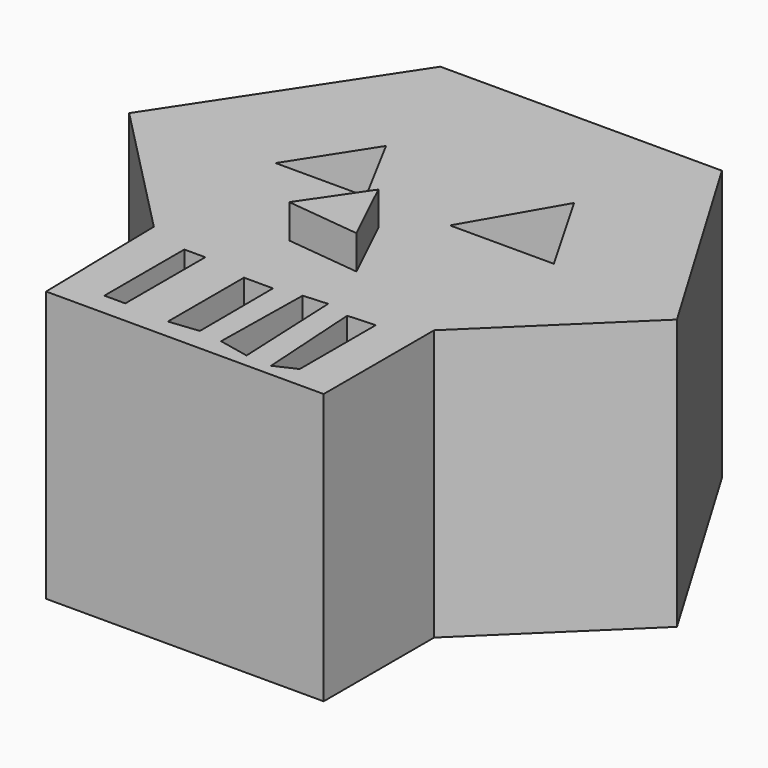
from build123d import *

# Parameters (mm, degrees)
PAD_DEPTH       = 20
POCKET_DEPTH    = 5
POCKET001_DEPTH = 5
PAD001_DEPTH    = 2.5
SKETCH004_W     = 1.549321
SKETCH004_H     = 7.389076
POCKET002_DEPTH = 20.001
POCKET003_DEPTH = 20.001
POCKET004_DEPTH = 20.001
POCKET005_DEPTH = 20.001


with BuildPart() as part:
    # Sketch → Pad (new body)
    with BuildSketch(Plane.XY):
        Polygon((-9.801471, 25.959593), (11.01361, 25.959593), (20.613062, 9.803649), (10.505054, 0), (10.505054, -10.208122), (-10.014578, -10.208122), (-10.216599, 0), (-20.202017, 10.202021), align=None)
    extrude(amount=PAD_DEPTH)

    # Sketch002 (on Face10 of Pad) → Pocket (cut)
    with BuildSketch(Plane.XY.offset(20)):
        Polygon((10.707072, 10.808081), (3.03031, 10.808081), (6.868694, 17.474747), align=None)
    extrude(amount=-POCKET_DEPTH, mode=Mode.SUBTRACT)

    # Sketch001 (on Face10 of Pad) → Pocket001 (cut)
    with BuildSketch(Plane.XY.offset(20)):
        Polygon((-6.060602, 16.262627), (-9.696968, 10.606062), (-3.030296, 10.606062), align=None)
    extrude(amount=-POCKET001_DEPTH, mode=Mode.SUBTRACT)

    # Sketch003 (on Face5 of Pocket001) → Pad001 (join)
    with BuildSketch(Plane.XY.offset(20)):
        Polygon((0, 7.979798), (-3.030296, 3.535354), (2.424244, 2.929294), align=None)
    extrude(amount=PAD001_DEPTH)

    # Sketch004 (on Face5 of Pad001) → Pocket002 (cut, through all)
    with BuildSketch(Plane.XY.offset(20)):
        with Locations((-6.289715, -4.81679)):
            Rectangle(SKETCH004_W, SKETCH004_H)
    extrude(amount=-POCKET002_DEPTH, mode=Mode.SUBTRACT)

    # Sketch005 (on Face5 of Pocket002) → Pocket003 (cut, through all)
    with BuildSketch(Plane.XY.offset(20)):
        Polygon((-2.178051, -1.718145), (-2.178051, -8.749685), (0, -8.511328), (-0.032834, -1.718145), align=None)
    extrude(amount=-POCKET003_DEPTH, mode=Mode.SUBTRACT)

    # Sketch006 (on Face5 of Pocket003) → Pocket004 (cut, through all)
    with BuildSketch(Plane.XY.offset(20)):
        Polygon((1.874023, -1.36061), (1.754846, -8.749685), (4.019244, -9.226399), (3.661705, -1.241431), align=None)
    extrude(amount=-POCKET004_DEPTH, mode=Mode.SUBTRACT)

    # Sketch007 (on Face5 of Pocket004) → Pocket005 (cut, through all)
    with BuildSketch(Plane.XY.offset(20)):
        Polygon((5.449386, -1.718145), (5.926099, -9.345578), (7.475415, -8.630507), (7.475415, -1.598966), align=None)
    extrude(amount=-POCKET005_DEPTH, mode=Mode.SUBTRACT)


solid = part.part
